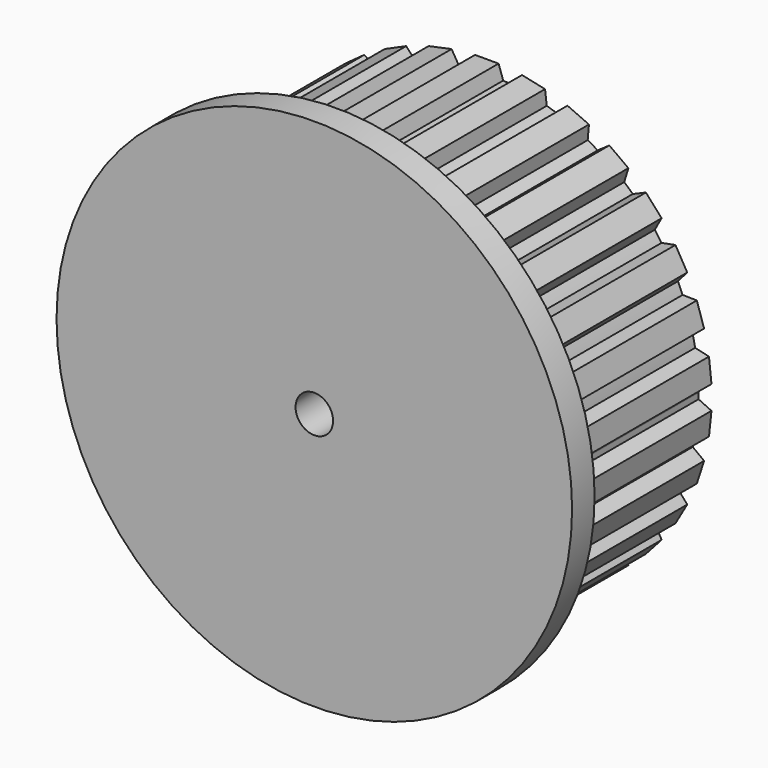
from build123d import *

# Parameters (mm, degrees)
F0_R     = 2
F1_DEPTH = 20
F2_R     = 27.5
F2_R_2   = 2
F3_DEPTH = 3


with BuildPart() as f1:
    # F0 (on Front) → F1 (new body)
    with BuildSketch(Plane.XZ):
        with BuildLine():
            ThreePointArc((22.59164, -0.614671), (22.59791, -0.307364), (22.6, 0))
            ThreePointArc((22.6, 0), (22.59791, 0.307364), (22.59164, 0.614671))
            ThreePointArc((22.59164, 0.614671), (22.476195, 2.362343), (22.225755, 4.095827))
            ThreePointArc((22.225755, 4.095827), (22.106136, 4.698804), (21.970161, 5.298305))
            ThreePointArc((21.970161, 5.298305), (21.493877, 6.983784), (20.888499, 8.627318))
            ThreePointArc((20.888499, 8.627318), (20.646127, 9.192248), (20.38848, 9.750378))
            ThreePointArc((20.38848, 9.750378), (19.572174, 11.3), (18.638315, 12.781753))
            ThreePointArc((18.638315, 12.781753), (18.283784, 13.283947), (17.915726, 13.776312))
            ThreePointArc((17.915726, 13.776312), (16.795073, 15.122352), (15.573547, 16.377565))
            ThreePointArc((15.573547, 16.377565), (15.122352, 16.795073), (14.659968, 17.200155))
            ThreePointArc((14.659968, 17.200155), (13.283947, 18.283784), (11.828141, 19.257598))
            ThreePointArc((11.828141, 19.257598), (11.3, 19.572174), (10.763499, 19.872269))
            ThreePointArc((10.763499, 19.872269), (9.192248, 20.646127), (7.565788, 21.295982))
            ThreePointArc((7.565788, 21.295982), (6.983784, 21.493877), (6.396614, 21.67587))
            ThreePointArc((6.396614, 21.67587), (4.698804, 22.106136), (2.972773, 22.40363))
            ThreePointArc((2.972773, 22.40363), (2.362343, 22.476195), (1.750165, 22.532131))
            ThreePointArc((1.750165, 22.532131), (0, 22.6), (-1.750165, 22.532131))
            ThreePointArc((-1.750165, 22.532131), (-2.362343, 22.476195), (-2.972773, 22.40363))
            ThreePointArc((-2.972773, 22.40363), (-4.698804, 22.106136), (-6.396614, 21.67587))
            ThreePointArc((-6.396614, 21.67587), (-6.983784, 21.493877), (-7.565788, 21.295982))
            ThreePointArc((-7.565788, 21.295982), (-9.192248, 20.646127), (-10.763499, 19.872269))
            ThreePointArc((-10.763499, 19.872269), (-11.3, 19.572174), (-11.828141, 19.257598))
            ThreePointArc((-11.828141, 19.257598), (-13.283947, 18.283784), (-14.659968, 17.200155))
            ThreePointArc((-14.659968, 17.200155), (-15.122352, 16.795073), (-15.573547, 16.377565))
            ThreePointArc((-15.573547, 16.377565), (-16.795073, 15.122352), (-17.915726, 13.776312))
            ThreePointArc((-17.915726, 13.776312), (-18.283784, 13.283947), (-18.638315, 12.781753))
            ThreePointArc((-18.638315, 12.781753), (-19.572174, 11.3), (-20.38848, 9.750378))
            ThreePointArc((-20.38848, 9.750378), (-20.646127, 9.192248), (-20.888499, 8.627318))
            ThreePointArc((-20.888499, 8.627318), (-21.493877, 6.983784), (-21.970161, 5.298305))
            ThreePointArc((-21.970161, 5.298305), (-22.106136, 4.698804), (-22.225755, 4.095827))
            ThreePointArc((-22.225755, 4.095827), (-22.476195, 2.362343), (-22.59164, 0.614671))
            ThreePointArc((-22.59164, 0.614671), (-22.6, 0), (-22.59164, -0.614671))
            ThreePointArc((-22.59164, -0.614671), (-22.476195, -2.362343), (-22.225755, -4.095827))
            ThreePointArc((-22.225755, -4.095827), (-22.106136, -4.698804), (-21.970161, -5.298305))
            ThreePointArc((-21.970161, -5.298305), (-21.493877, -6.983784), (-20.888499, -8.627318))
            ThreePointArc((-20.888499, -8.627318), (-20.646127, -9.192248), (-20.38848, -9.750378))
            ThreePointArc((-20.38848, -9.750378), (-19.572174, -11.3), (-18.638315, -12.781753))
            ThreePointArc((-18.638315, -12.781753), (-18.283784, -13.283947), (-17.915726, -13.776312))
            ThreePointArc((-17.915726, -13.776312), (-16.795073, -15.122352), (-15.573547, -16.377565))
            ThreePointArc((-15.573547, -16.377565), (-15.122352, -16.795073), (-14.659968, -17.200155))
            ThreePointArc((-14.659968, -17.200155), (-13.283947, -18.283784), (-11.828141, -19.257598))
            ThreePointArc((-11.828141, -19.257598), (-11.3, -19.572174), (-10.763499, -19.872269))
            ThreePointArc((-10.763499, -19.872269), (-9.192248, -20.646127), (-7.565788, -21.295982))
            ThreePointArc((-7.565788, -21.295982), (-6.983784, -21.493877), (-6.396614, -21.67587))
            ThreePointArc((-6.396614, -21.67587), (-4.698804, -22.106136), (-2.972773, -22.40363))
            ThreePointArc((-2.972773, -22.40363), (-2.362343, -22.476195), (-1.750165, -22.532131))
            ThreePointArc((-1.750165, -22.532131), (0, -22.6), (1.750165, -22.532131))
            ThreePointArc((1.750165, -22.532131), (2.362343, -22.476195), (2.972773, -22.40363))
            ThreePointArc((2.972773, -22.40363), (4.698804, -22.106136), (6.396614, -21.67587))
            ThreePointArc((6.396614, -21.67587), (6.983784, -21.493877), (7.565788, -21.295982))
            ThreePointArc((7.565788, -21.295982), (9.192248, -20.646127), (10.763499, -19.872269))
            ThreePointArc((10.763499, -19.872269), (11.3, -19.572174), (11.828141, -19.257598))
            ThreePointArc((11.828141, -19.257598), (13.283947, -18.283784), (14.659968, -17.200155))
            ThreePointArc((14.659968, -17.200155), (15.122352, -16.795073), (15.573547, -16.377565))
            ThreePointArc((15.573547, -16.377565), (16.795073, -15.122352), (17.915726, -13.776312))
            ThreePointArc((17.915726, -13.776312), (18.283784, -13.283947), (18.638315, -12.781753))
            ThreePointArc((18.638315, -12.781753), (19.572174, -11.3), (20.38848, -9.750378))
            ThreePointArc((20.38848, -9.750378), (20.646127, -9.192248), (20.888499, -8.627318))
            ThreePointArc((20.888499, -8.627318), (21.493877, -6.983784), (21.970161, -5.298305))
            ThreePointArc((21.970161, -5.298305), (22.106136, -4.698804), (22.225755, -4.095827))
            ThreePointArc((22.225755, -4.095827), (22.476195, -2.362343), (22.59164, -0.614671))
        make_face()
        Circle(F0_R, mode=Mode.SUBTRACT)
        with BuildLine():
            ThreePointArc((22.225755, 4.095827), (22.476195, 2.362343), (22.59164, 0.614671))
            Line((22.59164, 0.614671), (23.967109, 1.256063))
            Line((23.967109, 1.256063), (23.70452, 3.754427))
            Line((23.70452, 3.754427), (22.225755, 4.095827))
        make_face()
        with BuildLine():
            Line((23.967109, -1.256063), (22.59164, -0.614671))
            ThreePointArc((22.59164, -0.614671), (22.476195, -2.362343), (22.225755, -4.095827))
            Line((22.225755, -4.095827), (23.70452, -3.754427))
            Line((23.70452, -3.754427), (23.967109, -1.256063))
        make_face()
        with BuildLine():
            ThreePointArc((20.888499, 8.627318), (21.493877, 6.983784), (21.970161, 5.298305))
            Line((21.970161, 5.298305), (23.18222, 6.211657))
            Line((23.18222, 6.211657), (22.40593, 8.600831))
            Line((22.40593, 8.600831), (20.888499, 8.627318))
        make_face()
        with BuildLine():
            Line((23.18222, -6.211657), (21.970161, -5.298305))
            ThreePointArc((21.970161, -5.298305), (21.493877, -6.983784), (20.888499, -8.627318))
            Line((20.888499, -8.627318), (22.40593, -8.600831))
            Line((22.40593, -8.600831), (23.18222, -6.211657))
        make_face()
        with BuildLine():
            ThreePointArc((18.638315, 12.781753), (19.572174, 11.3), (20.38848, 9.750378))
            Line((20.38848, 9.750378), (21.384157, 10.895772))
            Line((21.384157, 10.895772), (20.128094, 13.071337))
            Line((20.128094, 13.071337), (18.638315, 12.781753))
        make_face()
        with BuildLine():
            Line((21.384157, -10.895772), (20.38848, -9.750378))
            ThreePointArc((20.38848, -9.750378), (19.572174, -11.3), (18.638315, -12.781753))
            Line((18.638315, -12.781753), (20.128094, -13.071337))
            Line((20.128094, -13.071337), (21.384157, -10.895772))
        make_face()
        with BuildLine():
            ThreePointArc((15.573547, 16.377565), (16.795073, 15.122352), (17.915726, 13.776312))
            Line((17.915726, 13.776312), (18.651503, 15.103689))
            Line((18.651503, 15.103689), (16.970563, 16.970563))
            Line((16.970563, 16.970563), (15.573547, 16.377565))
        make_face()
        with BuildLine():
            Line((18.651503, -15.103689), (17.915726, -13.776312))
            ThreePointArc((17.915726, -13.776312), (16.795073, -15.122352), (15.573547, -16.377565))
            Line((15.573547, -16.377565), (16.970563, -16.970563))
            Line((16.970563, -16.970563), (18.651503, -15.103689))
        make_face()
        with BuildLine():
            ThreePointArc((11.828141, 19.257598), (13.283947, 18.283784), (14.659968, 17.200155))
            Line((14.659968, 17.200155), (15.103689, 18.651503))
            Line((15.103689, 18.651503), (13.071337, 20.128094))
            Line((13.071337, 20.128094), (11.828141, 19.257598))
        make_face()
        with BuildLine():
            Line((15.103689, -18.651503), (14.659968, -17.200155))
            ThreePointArc((14.659968, -17.200155), (13.283947, -18.283784), (11.828141, -19.257598))
            Line((11.828141, -19.257598), (13.071337, -20.128094))
            Line((13.071337, -20.128094), (15.103689, -18.651503))
        make_face()
        with BuildLine():
            ThreePointArc((7.565788, 21.295982), (9.192248, 20.646127), (10.763499, 19.872269))
            Line((10.763499, 19.872269), (10.895772, 21.384157))
            Line((10.895772, 21.384157), (8.600831, 22.40593))
            Line((8.600831, 22.40593), (7.565788, 21.295982))
        make_face()
        with BuildLine():
            Line((10.895772, -21.384157), (10.763499, -19.872269))
            ThreePointArc((10.763499, -19.872269), (9.192248, -20.646127), (7.565788, -21.295982))
            Line((7.565788, -21.295982), (8.600831, -22.40593))
            Line((8.600831, -22.40593), (10.895772, -21.384157))
        make_face()
        with BuildLine():
            ThreePointArc((2.972773, 22.40363), (4.698804, 22.106136), (6.396614, 21.67587))
            Line((6.396614, 21.67587), (6.211657, 23.18222))
            Line((6.211657, 23.18222), (3.754427, 23.70452))
            Line((3.754427, 23.70452), (2.972773, 22.40363))
        make_face()
        with BuildLine():
            Line((6.211657, -23.18222), (6.396614, -21.67587))
            ThreePointArc((6.396614, -21.67587), (4.698804, -22.106136), (2.972773, -22.40363))
            Line((2.972773, -22.40363), (3.754427, -23.70452))
            Line((3.754427, -23.70452), (6.211657, -23.18222))
        make_face()
        with BuildLine():
            ThreePointArc((-1.750165, 22.532131), (0, 22.6), (1.750165, 22.532131))
            Line((1.750165, 22.532131), (1.256063, 23.967109))
            Line((1.256063, 23.967109), (-1.256063, 23.967109))
            Line((-1.256063, 23.967109), (-1.750165, 22.532131))
        make_face()
        with BuildLine():
            Line((1.256063, -23.967109), (1.750165, -22.532131))
            ThreePointArc((1.750165, -22.532131), (0, -22.6), (-1.750165, -22.532131))
            Line((-1.750165, -22.532131), (-1.256063, -23.967109))
            Line((-1.256063, -23.967109), (1.256063, -23.967109))
        make_face()
        with BuildLine():
            ThreePointArc((-6.396614, 21.67587), (-4.698804, 22.106136), (-2.972773, 22.40363))
            Line((-2.972773, 22.40363), (-3.754427, 23.70452))
            Line((-3.754427, 23.70452), (-6.211657, 23.18222))
            Line((-6.211657, 23.18222), (-6.396614, 21.67587))
        make_face()
        with BuildLine():
            Line((-3.754427, -23.70452), (-2.972773, -22.40363))
            ThreePointArc((-2.972773, -22.40363), (-4.698804, -22.106136), (-6.396614, -21.67587))
            Line((-6.396614, -21.67587), (-6.211657, -23.18222))
            Line((-6.211657, -23.18222), (-3.754427, -23.70452))
        make_face()
        with BuildLine():
            ThreePointArc((-10.763499, 19.872269), (-9.192248, 20.646127), (-7.565788, 21.295982))
            Line((-7.565788, 21.295982), (-8.600831, 22.40593))
            Line((-8.600831, 22.40593), (-10.895772, 21.384157))
            Line((-10.895772, 21.384157), (-10.763499, 19.872269))
        make_face()
        with BuildLine():
            Line((-8.600831, -22.40593), (-7.565788, -21.295982))
            ThreePointArc((-7.565788, -21.295982), (-9.192248, -20.646127), (-10.763499, -19.872269))
            Line((-10.763499, -19.872269), (-10.895772, -21.384157))
            Line((-10.895772, -21.384157), (-8.600831, -22.40593))
        make_face()
        with BuildLine():
            ThreePointArc((-14.659968, 17.200155), (-13.283947, 18.283784), (-11.828141, 19.257598))
            Line((-11.828141, 19.257598), (-13.071337, 20.128094))
            Line((-13.071337, 20.128094), (-15.103689, 18.651503))
            Line((-15.103689, 18.651503), (-14.659968, 17.200155))
        make_face()
        with BuildLine():
            Line((-13.071337, -20.128094), (-11.828141, -19.257598))
            ThreePointArc((-11.828141, -19.257598), (-13.283947, -18.283784), (-14.659968, -17.200155))
            Line((-14.659968, -17.200155), (-15.103689, -18.651503))
            Line((-15.103689, -18.651503), (-13.071337, -20.128094))
        make_face()
        with BuildLine():
            ThreePointArc((-17.915726, 13.776312), (-16.795073, 15.122352), (-15.573547, 16.377565))
            Line((-15.573547, 16.377565), (-16.970563, 16.970563))
            Line((-16.970563, 16.970563), (-18.651503, 15.103689))
            Line((-18.651503, 15.103689), (-17.915726, 13.776312))
        make_face()
        with BuildLine():
            Line((-16.970563, -16.970563), (-15.573547, -16.377565))
            ThreePointArc((-15.573547, -16.377565), (-16.795073, -15.122352), (-17.915726, -13.776312))
            Line((-17.915726, -13.776312), (-18.651503, -15.103689))
            Line((-18.651503, -15.103689), (-16.970563, -16.970563))
        make_face()
        with BuildLine():
            ThreePointArc((-20.38848, 9.750378), (-19.572174, 11.3), (-18.638315, 12.781753))
            Line((-18.638315, 12.781753), (-20.128094, 13.071337))
            Line((-20.128094, 13.071337), (-21.384157, 10.895772))
            Line((-21.384157, 10.895772), (-20.38848, 9.750378))
        make_face()
        with BuildLine():
            Line((-20.128094, -13.071337), (-18.638315, -12.781753))
            ThreePointArc((-18.638315, -12.781753), (-19.572174, -11.3), (-20.38848, -9.750378))
            Line((-20.38848, -9.750378), (-21.384157, -10.895772))
            Line((-21.384157, -10.895772), (-20.128094, -13.071337))
        make_face()
        with BuildLine():
            ThreePointArc((-21.970161, 5.298305), (-21.493877, 6.983784), (-20.888499, 8.627318))
            Line((-20.888499, 8.627318), (-22.40593, 8.600831))
            Line((-22.40593, 8.600831), (-23.18222, 6.211657))
            Line((-23.18222, 6.211657), (-21.970161, 5.298305))
        make_face()
        with BuildLine():
            Line((-22.40593, -8.600831), (-20.888499, -8.627318))
            ThreePointArc((-20.888499, -8.627318), (-21.493877, -6.983784), (-21.970161, -5.298305))
            Line((-21.970161, -5.298305), (-23.18222, -6.211657))
            Line((-23.18222, -6.211657), (-22.40593, -8.600831))
        make_face()
        with BuildLine():
            ThreePointArc((-22.59164, 0.614671), (-22.476195, 2.362343), (-22.225755, 4.095827))
            Line((-22.225755, 4.095827), (-23.70452, 3.754427))
            Line((-23.70452, 3.754427), (-23.967109, 1.256063))
            Line((-23.967109, 1.256063), (-22.59164, 0.614671))
        make_face()
        with BuildLine():
            Line((-23.70452, -3.754427), (-22.225755, -4.095827))
            ThreePointArc((-22.225755, -4.095827), (-22.476195, -2.362343), (-22.59164, -0.614671))
            Line((-22.59164, -0.614671), (-23.967109, -1.256063))
            Line((-23.967109, -1.256063), (-23.70452, -3.754427))
        make_face()
    extrude(amount=F1_DEPTH)

    # F2 (on face) → F3 (join)
    with BuildSketch(Plane.XZ.offset(20)):
        Circle(F2_R)
        Circle(F2_R_2, mode=Mode.SUBTRACT)
    extrude(amount=F3_DEPTH)


solid = f1.part
